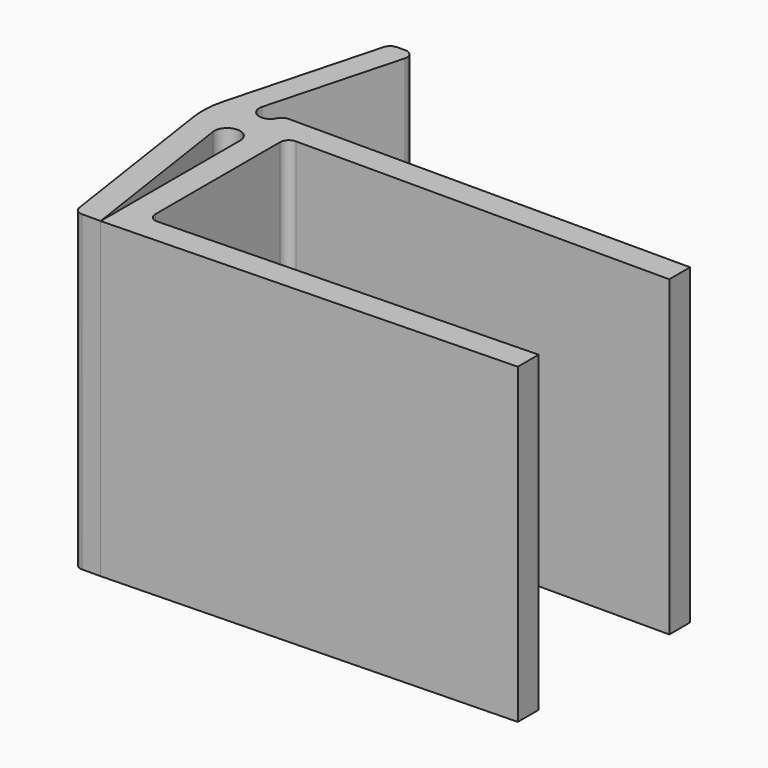
from build123d import *

# Parameters (mm, degrees)
F1_DEPTH      = 18
F1_DEPTH_BACK = 18
F3_DEPTH      = 18
F3_DEPTH_BACK = 18
F4_R          = 1
F5_R          = 10
F6_R          = 1


with BuildPart() as f1:
    # F0 (on Top) → F1 (new body, two sides)
    with BuildSketch(Plane.XY) as f1_sk:
        Polygon((0, 0), (44, 0), (44, 3), (-3, 3), (-3, -23.081818), (44, -21.8), (44, -18.8), (0, -20), align=None)
    extrude(amount=F1_DEPTH)
    extrude(f1_sk.sketch, amount=-F1_DEPTH_BACK)

    # F2 (on Top) → F3 (join, two sides)
    with BuildSketch(Plane.XY) as f3_sk:
        with BuildLine():
            ThreePointArc((-3, 3), (-4.472403, 1.708738), (-5.560431, 3.337087))
            Line((-5.560431, 3.337087), (-1.095617, 20))
            Line((-1.095617, 20), (-4.095617, 20))
            Line((-4.095617, 20), (-9.454601, 0))
            Line((-9.454601, 0), (-6.005, -23.081818))
            Line((-6.005, -23.081818), (-3.005, -23.081818))
            Line((-3.005, -23.081818), (-5.973227, -3.220949))
            ThreePointArc((-5.973227, -3.220949), (-4.605602, -1.509287), (-3, -3))
            Line((-3, -3), (-3, 3))
        make_face()
    extrude(amount=F3_DEPTH)
    extrude(f3_sk.sketch, amount=-F3_DEPTH_BACK)

    # F4
    f4_edges = [f1.edges().sort_by_distance(p)[0] for p in [
        (-4.095617, 20, 0),
        (-1.095617, 20, 0),
        (-3, 3, 0),
        (-6.005, -23.081818, 0),
    ]]
    fillet(f4_edges, radius=F4_R)

    # F5
    f5_edges = [f1.edges().sort_by_distance(p)[0] for p in [
        (-9.454601, 0, 0),
    ]]
    fillet(f5_edges, radius=F5_R)

    # F6
    f6_edges = [f1.edges().sort_by_distance(p)[0] for p in [
        (0, 0, 0),
        (0, -20, 0),
    ]]
    fillet(f6_edges, radius=F6_R)


solid = f1.part
